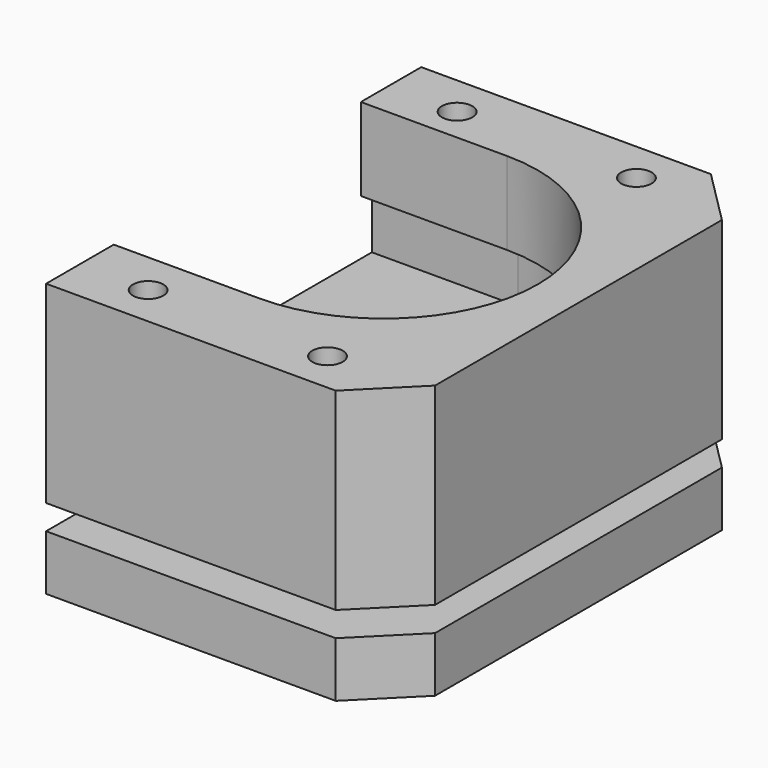
from build123d import *

# Parameters (mm, degrees)
F1_DEPTH  = 5.08
F3_DEPTH  = 2.286
F5_DEPTH  = 17.78
F6_SIZE   = 5.08
F7_R      = 1.4
F8_DEPTH  = 12.7
F10_DEPTH = 5.08


with BuildPart() as f1:
    # F0 (on Top) → F1 (new body)
    with BuildSketch(Plane.XY):
        Polygon((-17.894535, 19.113216), (-17.894535, 2.39155), (-17.894535, -10.837617), (13.855465, -10.837617), (13.855465, 10.752383), (13.855465, 32.342383), (-17.894535, 32.342383), align=None)
    extrude(amount=F1_DEPTH)

    # F2 (on face) → F3 (join)
    with BuildSketch(Plane.XY.offset(5.08)):
        with BuildLine():
            Line((-2.554535, 20.812383), (-17.894535, 20.812383))
            Line((-17.894535, 20.812383), (-17.894535, 0.692383))
            Line((-17.894535, 0.692383), (-2.554535, 0.692383))
            ThreePointArc((-2.554535, 0.692383), (7.505465, 10.752383), (-2.554535, 20.812383))
        make_face()
    extrude(amount=F3_DEPTH)

    # F4 (on face) → F5 (join)
    with BuildSketch(Plane.XY.offset(7.366)):
        with BuildLine():
            Line((-2.554535, 20.812383), (-17.894535, 20.812383))
            Line((-17.894535, 20.812383), (-17.894535, 0.692383))
            Line((-17.894535, 0.692383), (-2.554535, 0.692383))
            ThreePointArc((-2.554535, 0.692383), (7.505465, 10.752383), (-2.554535, 20.812383))
        make_face()
        with BuildLine():
            Line((13.855465, 32.342383), (-17.894535, 32.342383))
            Line((-17.894535, 32.342383), (-17.894535, 20.812383))
            Line((-17.894535, 20.812383), (-2.554535, 20.812383))
            ThreePointArc((-2.554535, 20.812383), (7.505465, 10.752383), (-2.554535, 0.692383))
            Line((-2.554535, 0.692383), (-17.894535, 0.692383))
            Line((-17.894535, 0.692383), (-17.894535, -10.837617))
            Line((-17.894535, -10.837617), (13.855465, -10.837617))
            Line((13.855465, -10.837617), (13.855465, 32.342383))
        make_face()
    extrude(amount=F5_DEPTH)

    # F6
    f6_edges = [f1.edges().sort_by_distance(p)[0] for p in [
        (13.855465, -10.837617, 16.256),
        (13.855465, -10.837617, 2.54),
        (13.855465, 32.342383, 16.256),
        (13.855465, 32.342383, 2.54),
    ]]
    chamfer(f6_edges, length=F6_SIZE)

    # F7 (on face) → F8 (cut)
    with BuildSketch(Plane.XY.offset(25.146)):
        with BuildLine():
            Line((-4.438033, 25.391014), (-17.894535, 25.391014))
            Line((-17.894535, 25.391014), (-17.894535, -3.048986))
            Line((-17.894535, -3.048986), (-4.438033, -3.048986))
            ThreePointArc((-4.438033, -3.048986), (9.781967, 11.171014), (-4.438033, 25.391014))
        make_face()
        with Locations((-11.544535, 28.532383)):
            Circle(F7_R)
        with Locations((4.965465, 28.532383)):
            Circle(F7_R)
        with Locations((-11.544535, -7.027617)):
            Circle(F7_R)
        with Locations((4.965465, -7.027617)):
            Circle(F7_R)
    extrude(amount=-F8_DEPTH, mode=Mode.SUBTRACT)

    # F9 (on face) → F10 (cut)
    with BuildSketch(Plane.XY.offset(12.446)):
        with BuildLine():
            Line((-4.438033, 26.661014), (-19.164535, 26.661014))
            Line((-19.164535, 26.661014), (-19.164535, -4.318986))
            Line((-19.164535, -4.318986), (-4.438033, -4.318986))
            ThreePointArc((-4.438033, -4.318986), (11.051967, 11.171014), (-4.438033, 26.661014))
        make_face()
    extrude(amount=F10_DEPTH, mode=Mode.SUBTRACT)


solid = f1.part
